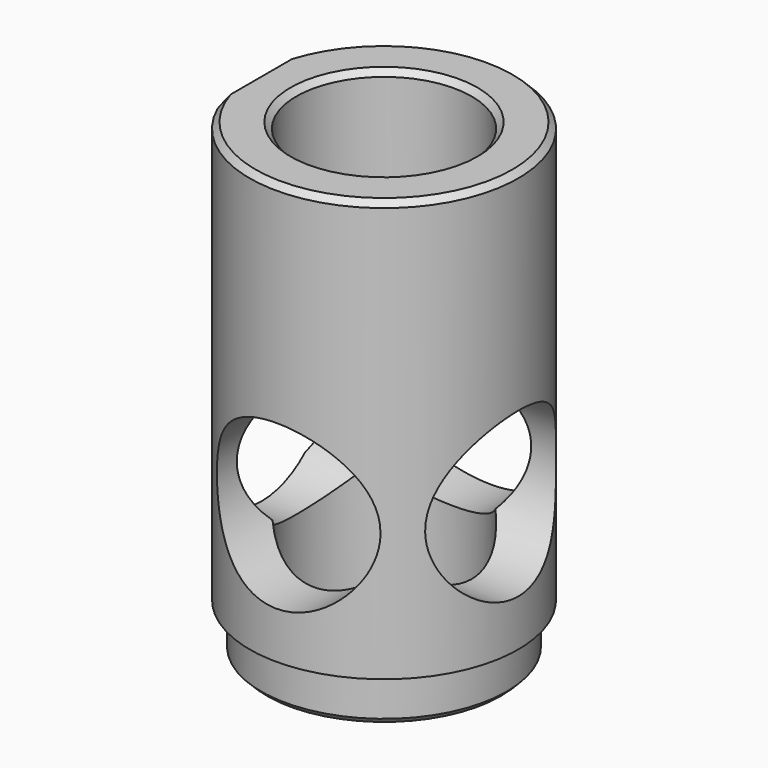
from build123d import *

# Parameters (mm, degrees)
F0_R          = 7.5
F1_DEPTH      = 40
F2_R          = 7
F3_DEPTH      = 22.001
F4_R          = 7
F5_DEPTH      = 11.5010001
F5_DEPTH_BACK = 11.5010001
F6_R          = 11.5
F6_R_2        = 10.5
F7_DEPTH      = 4
F8_SIZE       = 0.5


with BuildPart() as f1:
    # F0 (on Top) → F1 (new body)
    with BuildSketch(Plane.XY):
        with BuildLine():
            Line((-10.5, 4.6904157598), (-10.5, -4.6904157598))
            ThreePointArc((-10.5, -4.6904157598), (11.5, 0), (-10.5, 4.6904157598))
        make_face()
        Circle(F0_R, mode=Mode.SUBTRACT)
    extrude(amount=F1_DEPTH)

    # F2 (on face) → F3 (cut, through all)
    with BuildSketch(Plane(origin=(-10.5, 0, 0), x_dir=(0, -1, 0), z_dir=(-1, 0, 0))):
        with Locations((0, 15)):
            Circle(F2_R)
    extrude(amount=-F3_DEPTH, mode=Mode.SUBTRACT)

    # F4 (on Front) → F5 (cut, two sides)
    with BuildSketch(Plane.XZ) as f5_sk:
        with Locations((0, 15)):
            Circle(F4_R)
    extrude(amount=-F5_DEPTH, mode=Mode.SUBTRACT)
    extrude(f5_sk.sketch, amount=F5_DEPTH_BACK, mode=Mode.SUBTRACT)

    # F6 (on face) → F7 (cut)
    with BuildSketch(Plane(origin=(0, 0, 0), x_dir=(1, 0, 0), z_dir=(0, 0, -1))):
        Circle(F6_R)
        Circle(F6_R_2, mode=Mode.SUBTRACT)
    extrude(amount=-F7_DEPTH, mode=Mode.SUBTRACT)

    # F8
    f8_edges = [f1.edges().sort_by_distance(p)[0] for p in [
        (-10.5, 0, 0),
        (-7.5, 0, 0),
        (11.5, 0, 40),
        (-7.5, 0, 40),
    ]]
    chamfer(f8_edges, length=F8_SIZE)


solid = f1.part
